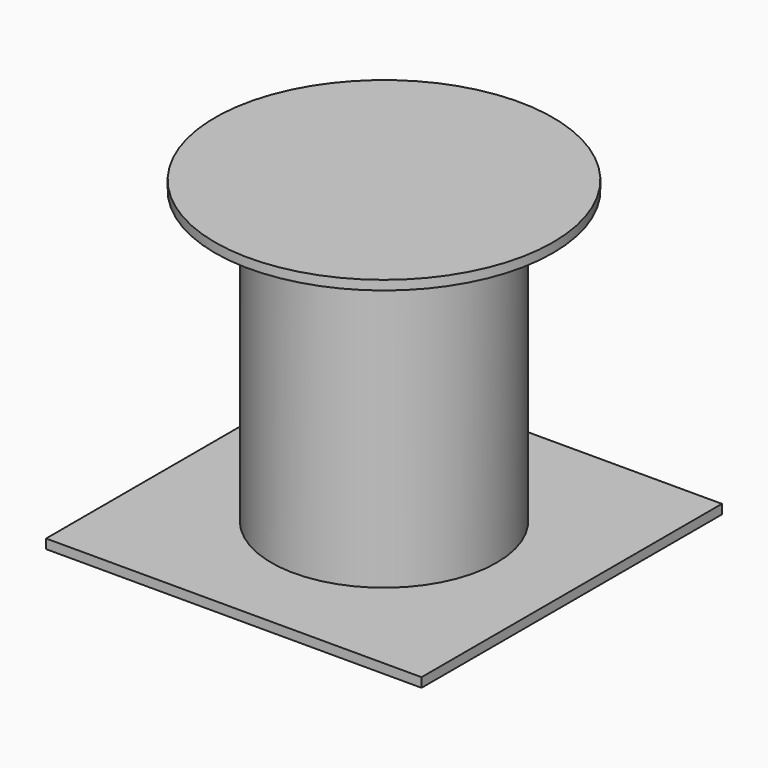
from build123d import *

# Parameters (mm, degrees)
F0_R     = 450
F1_DEPTH = 25
F2_R     = 300
F3_DEPTH = 800
F4_W     = 1000
F4_H     = 1000
F4_R     = 300
F5_DEPTH = 25


with BuildPart() as f1:
    # F0 (on Top) → F1 (new body)
    with BuildSketch(Plane.XY):
        Circle(F0_R)
    extrude(amount=F1_DEPTH)

    # F2 (on face) → F3 (join)
    with BuildSketch(Plane.XY.offset(25)):
        Circle(F2_R)
    extrude(amount=-F3_DEPTH)


with BuildPart() as f5:
    # F4 (on face) → F5 (new body)
    with BuildSketch(Plane(origin=(0, 0, -775), x_dir=(1, 0, 0), z_dir=(0, 0, -1))):
        Rectangle(F4_W, F4_H)
        Circle(F4_R, mode=Mode.SUBTRACT)
    extrude(amount=F5_DEPTH)


solid = Compound([f1.part, f5.part])
